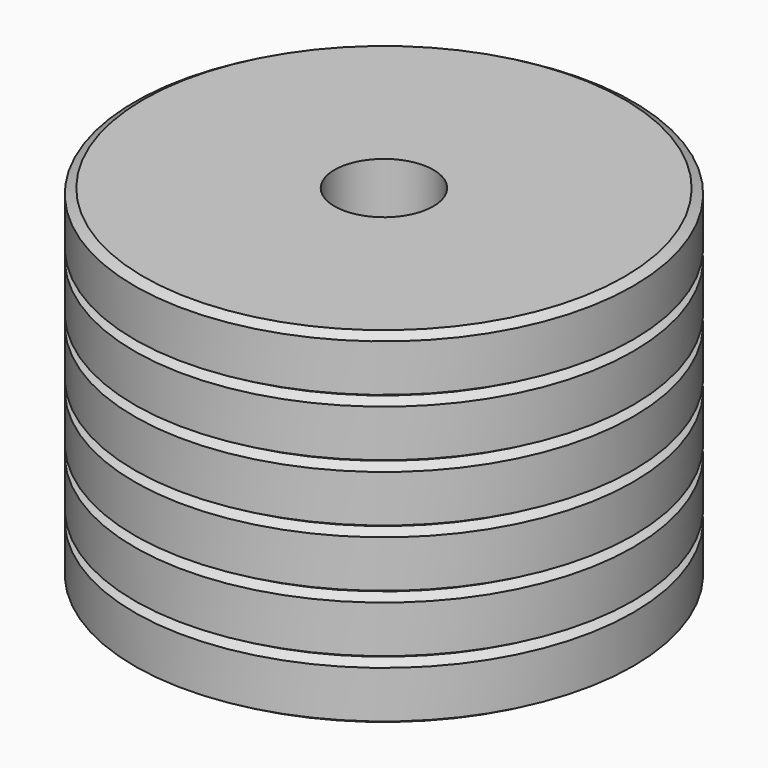
from build123d import *

# Parameters (mm, degrees)
F2_R     = 2.75
F3_DEPTH = 19.201


with BuildPart() as f1:
    # F0 (on Front) → F1 (revolve)
    with BuildSketch(Plane.XZ):
        Polygon((0, 9.6), (0, 0), (0, -9.6), (13.37514, -9.6), (13.87514, -9.311325), (13.87514, -6.688675), (13.37514, -6.4), (13.87514, -6.111325), (13.87514, -3.488675), (13.37514, -3.2), (13.87514, -2.911325), (13.87514, -0.288675), (13.37514, 0), (13.87514, 0.288675), (13.87514, 2.911325), (13.37514, 3.2), (13.87514, 3.488675), (13.87514, 6.111325), (13.37514, 6.4), (13.87514, 6.688675), (13.87514, 9.311325), (13.37514, 9.6), align=None)
    revolve(axis=Axis((0, 0, 4.8), (0, 0, 1)))

    # F2 (on face) → F3 (cut, through all)
    with BuildSketch(Plane.XY.offset(9.6)):
        Circle(F2_R)
    extrude(amount=-F3_DEPTH, mode=Mode.SUBTRACT)


solid = f1.part
